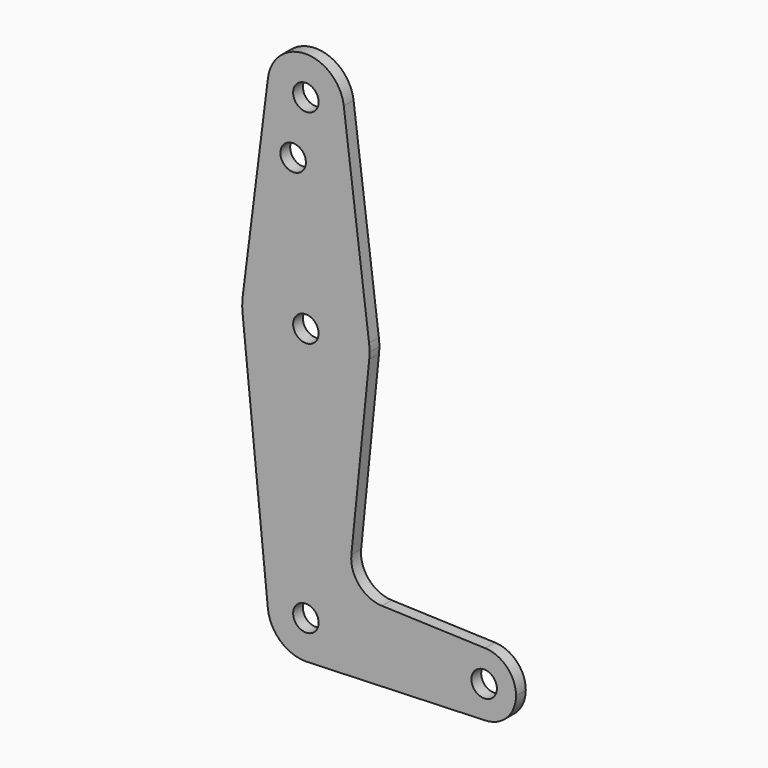
from build123d import *

# Parameters (mm, degrees)
F0_R     = 3.175
F1_DEPTH = 3.048


with BuildPart() as f1:
    # F0 (on Front) → F1 (new body)
    with BuildSketch(Plane.XZ):
        with BuildLine():
            Line((-9.450293, 115.490625), (-15.750488, 65.484375))
            ThreePointArc((-15.750488, 65.484375), (0, 79.375), (15.750488, 65.484375))
            Line((15.750488, 65.484375), (9.450293, 115.490625))
            ThreePointArc((9.450293, 115.490625), (9.506305, 114.896483), (9.525, 114.3))
            ThreePointArc((9.525, 114.3), (-0.596483, 104.793695), (-9.450293, 115.490625))
        make_face()
        with Locations((-3.175, 100.0252)):
            Circle(F0_R, mode=Mode.SUBTRACT)
        with BuildLine():
            ThreePointArc((-9.477255, -0.9525), (-0.476848, 9.513056), (9.525, 0))
            ThreePointArc((9.525, 0), (6.970557, -6.491299), (0.677344, -9.500886))
            Line((0.677344, -9.500886), (44.732405, -7.932475))
            ThreePointArc((44.732405, -7.932475), (36.5125, 0.000539), (44.733482, 7.932436))
            Line((44.733482, 7.932436), (18.9676, 8.853234))
            ThreePointArc((18.9676, 8.853234), (13.2612, 11.571359), (11.341187, 17.593382))
            Line((11.341187, 17.593382), (15.795426, 61.9125))
            ThreePointArc((15.795426, 61.9125), (0, 47.625), (-15.795426, 61.9125))
            Line((-15.795426, 61.9125), (-9.477255, -0.9525))
        make_face()
        with BuildLine():
            ThreePointArc((-15.750488, 65.484375), (-15.873744, 63.699705), (-15.795426, 61.9125))
            ThreePointArc((-15.795426, 61.9125), (0, 47.625), (15.795426, 61.9125))
            ThreePointArc((15.795426, 61.9125), (15.855094, 62.705253), (15.875, 63.5))
            ThreePointArc((15.875, 63.5), (15.843841, 64.494139), (15.750488, 65.484375))
            ThreePointArc((15.750488, 65.484375), (0, 79.375), (-15.750488, 65.484375))
        make_face()
        with Locations((0, 63.5)):
            Circle(F0_R, mode=Mode.SUBTRACT)
        with BuildLine():
            ThreePointArc((0.677344, -9.500886), (6.970557, -6.491299), (9.525, 0))
            ThreePointArc((9.525, 0), (-0.476848, 9.513056), (-9.477255, -0.9525))
            ThreePointArc((-9.477255, -0.9525), (-6.389564, -7.063929), (0, -9.525))
            Line((0, -9.525), (0.677344, -9.500886))
        make_face()
        Circle(F0_R, mode=Mode.SUBTRACT)
        with BuildLine():
            ThreePointArc((44.733482, 7.932436), (36.5125, 0.000539), (44.732405, -7.932475))
            ThreePointArc((44.732405, -7.932475), (50.161633, -5.51191), (52.3875, 0))
            ThreePointArc((52.3875, 0), (50.162007, 5.511523), (44.733482, 7.932436))
        make_face()
        with Locations((44.45, 0)):
            Circle(F0_R, mode=Mode.SUBTRACT)
        with BuildLine():
            ThreePointArc((9.450293, 115.490625), (0, 123.825), (-9.450293, 115.490625))
            ThreePointArc((-9.450293, 115.490625), (-0.596483, 104.793695), (9.525, 114.3))
            ThreePointArc((9.525, 114.3), (9.506305, 114.896483), (9.450293, 115.490625))
        make_face()
        with Locations((0, 114.3)):
            Circle(F0_R, mode=Mode.SUBTRACT)
    extrude(amount=F1_DEPTH)


solid = f1.part
